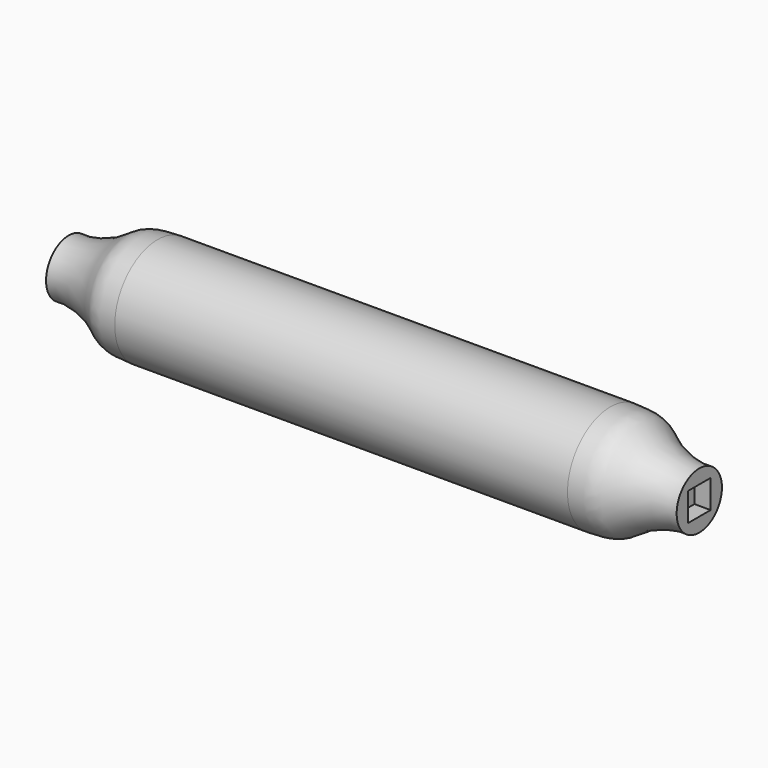
from build123d import *

# Parameters (mm, degrees)
F0_W     = 711.2
F0_H     = 84.1375
F2_W     = 44.45
F2_H     = 44.45
F3_DEPTH = 25.4
F4_W     = 44.45
F4_H     = 44.45
F5_DEPTH = 25.4


with BuildPart() as f1:
    # F0 (on Top) → F1 (revolve)
    with BuildSketch(Plane.XY):
        with Locations((0, 42.06875)):
            Rectangle(F0_W, F0_H)
        with BuildLine():
            add(Edge.make_bspline(
                [(495.3, 44.45), (491.1825215885, 44.0904084612), (479.4418370711, 43.0650598398), (427.3573599541, 55.187373247), (400.0577825465, 83.2970238087), (370.6219245107, 83.8535099048), (355.6, 84.1375)],
                knots=[0, 0, 0, 0, 0.1628231526, 0.4642781518, 0.7266064691, 1, 1, 1, 1], degree=3))
            Line((355.6, 84.1375), (355.6, 0))
            Line((355.6, 0), (495.3, 0))
            Line((495.3, 0), (495.3, 44.45))
        make_face()
        with BuildLine():
            Line((-355.6, 0), (-355.6, 84.1375))
            add(Edge.make_bspline(
                [(-495.3, 44.45), (-491.1825215885, 44.0904084612), (-479.4418370711, 43.0650598398), (-427.3573599541, 55.187373247), (-400.0577825465, 83.2970238087), (-370.6219245107, 83.8535099048), (-355.6, 84.1375)],
                knots=[0, 0, 0, 0, 0.1628231526, 0.4642781518, 0.7266064691, 1, 1, 1, 1], degree=3))
            Line((-495.3, 44.45), (-495.3, 0))
            Line((-495.3, 0), (-355.6, 0))
        make_face()
    revolve(axis=Axis((0, 0, 0), (1, 0, 0)))

    # F2 (on face) → F3 (cut)
    with BuildSketch(Plane(origin=(-495.3, 0, 0), x_dir=(0, -1, 0), z_dir=(-1, 0, 0))):
        Rectangle(F2_W, F2_H)
    extrude(amount=-F3_DEPTH, mode=Mode.SUBTRACT)

    # F4 (on face) → F5 (cut)
    with BuildSketch(Plane.YZ.offset(495.3)):
        Rectangle(F4_W, F4_H)
    extrude(amount=-F5_DEPTH, mode=Mode.SUBTRACT)


solid = f1.part
